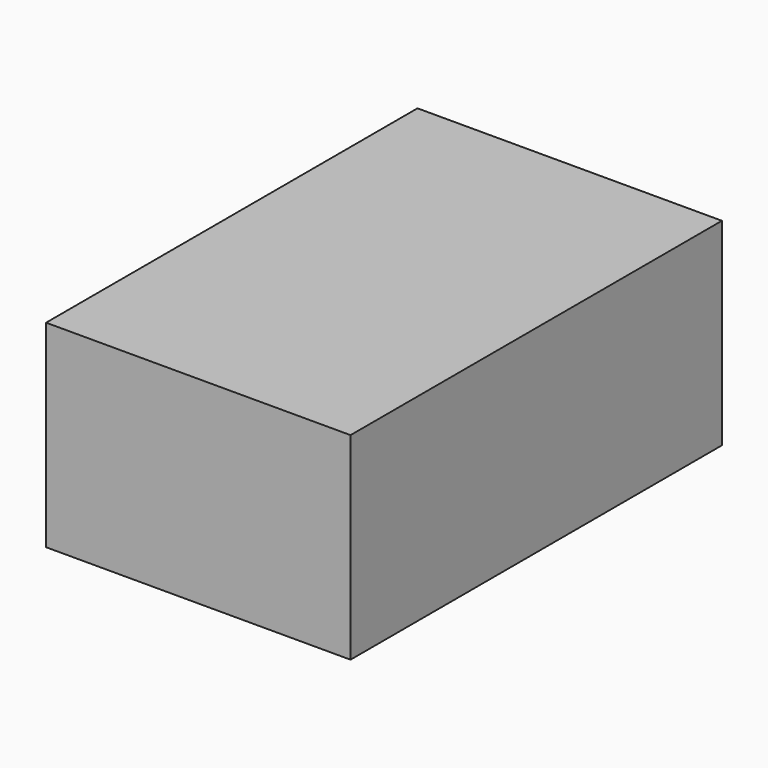
from build123d import *

# Parameters (mm, degrees)
F0_W     = 100
F0_H     = 50
F1_DEPTH = 156
F2_W     = 29.110924
F2_H     = 43.911625
F3_DEPTH = 18.701


with BuildPart() as f1:
    # F0 (on Front) → F1 (new body)
    with BuildSketch(Plane.XZ):
        with Locations((13.089076, 6.3)):
            Rectangle(F0_W, F0_H)
    extrude(amount=F1_DEPTH)

    # F2 (on Top) → F3 (intersect, through all)
    with BuildSketch(Plane.XY):
        with Locations((-22.671126, -40.779454)):
            Rectangle(F2_W, F2_H)
    extrude(amount=-F3_DEPTH, mode=Mode.INTERSECT)


solid = f1.part
